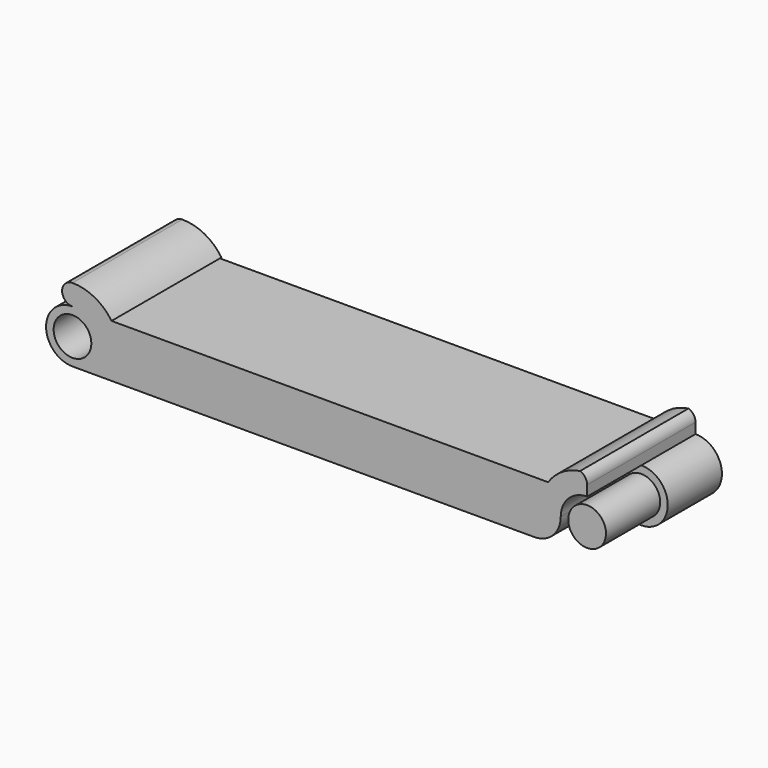
from build123d import *

# Parameters (mm, degrees)
F1_DEPTH = 14.37
F0_R     = 2
F2_DEPTH = 7.185
F4_DEPTH = 14.57
F3_R     = 2
F5_DEPTH = 14.37
F7_DEPTH = 7.185


with BuildPart() as f1:
    # F0 (on Front) → F1 (new body)
    with BuildSketch(Plane.XZ):
        with BuildLine():
            Line((0, 5.6), (0, 0))
            Line((0, 0), (51.79, 0))
            ThreePointArc((51.79, 0), (53.7698989873, 0.8201010127), (54.59, 2.8))
            ThreePointArc((54.59, 2.8), (55.4101010127, 4.7798989873), (57.39, 5.6))
            Line((57.39, 5.6), (57.39, 6.7))
            ThreePointArc((57.39, 6.7), (57.1826506427, 7.3427867688), (56.6387730361, 7.7432436768))
            ThreePointArc((56.6387730361, 7.7432436768), (54.7187785908, 7.0266507051), (53.2475369646, 5.6))
            Line((53.2475369646, 5.6), (0, 5.6))
        make_face()
    extrude(amount=F1_DEPTH)



with BuildPart() as f1b:
    # F0 (on Front) → F1, piece 2 (new body)
    with BuildSketch(Plane.XZ):
        with Locations((57.39, 2.8)):
            Circle(F0_R)
    extrude(amount=F1_DEPTH)


with BuildPart() as f1_1:
    add(f1.part)

    add(f1b.part)  # F2 merges F1b
    # F0 (on Front) → F2 (join)
    with BuildSketch(Plane.XZ):
        with BuildLine():
            ThreePointArc((54.59, 2.8), (53.7698989873, 0.8201010127), (51.79, 0))
            Line((51.79, 0), (57.39, 0))
            ThreePointArc((57.39, 0), (60.19, 2.8), (57.39, 5.6))
            ThreePointArc((57.39, 5.6), (55.4101010127, 4.7798989873), (54.59, 2.8))
        make_face()
        with Locations((57.39, 2.8)):
            Circle(F0_R, mode=Mode.SUBTRACT)
    extrude(amount=F2_DEPTH)

    # F3 (on face) → F4 (join)
    with BuildSketch(Plane.XZ.offset(14.37)):
        with BuildLine():
            ThreePointArc((2.8, 7.8), (1.7, 6.6999999984), (2.8000000032, 5.6))
            ThreePointArc((2.8000000032, 5.6), (3.5778174604, 5.9221825418), (3.9, 6.7))
            ThreePointArc((3.9, 6.7), (3.5778174593, 7.4778174593), (2.8, 7.8))
        make_face()
        with BuildLine():
            ThreePointArc((3.9, 6.7), (3.5778174604, 5.9221825418), (2.8000000032, 5.6))
            Line((2.8000000032, 5.6), (6.9424630354, 5.6))
            ThreePointArc((6.9424630354, 5.6), (5.1452078799, 7.2158804332), (2.8, 7.8))
            ThreePointArc((2.8, 7.8), (3.5778174593, 7.4778174593), (3.9, 6.7))
        make_face()
    extrude(amount=-F4_DEPTH)

    # F3 (on face) → F5 (cut)
    with BuildSketch(Plane.XZ.offset(14.37)):
        with BuildLine():
            ThreePointArc((0, 2.8), (0.8201010138, 4.7798989885), (2.8000000032, 5.6))
            Line((2.8000000032, 5.6), (0, 5.6))
            Line((0, 5.6), (0, 2.8))
        make_face()
        with BuildLine():
            Line((0, 0), (2.8, 0))
            ThreePointArc((2.8, 0), (0.8201010127, 0.8201010127), (0, 2.8))
            Line((0, 2.8), (0, 0))
        make_face()
        with Locations((2.8, 2.8)):
            Circle(F3_R)
    extrude(amount=-F5_DEPTH, mode=Mode.SUBTRACT)

    # F6 (on face) → F7 (cut)
    with BuildSketch(Plane.XZ):
        with BuildLine():
            Line((5.6, 0), (5.6, 2.8))
            ThreePointArc((5.6, 2.8), (0.8201010127, 4.7798989873), (2.8, 0))
            Line((2.8, 0), (5.6, 0))
        make_face()
        with BuildLine():
            ThreePointArc((8.4, 0), (6.4201010127, 0.8201010127), (5.6, 2.8))
            Line((5.6, 2.8), (5.6, 0))
            Line((5.6, 0), (8.4, 0))
        make_face()
    extrude(amount=F7_DEPTH, mode=Mode.SUBTRACT)


solid = f1_1.part
